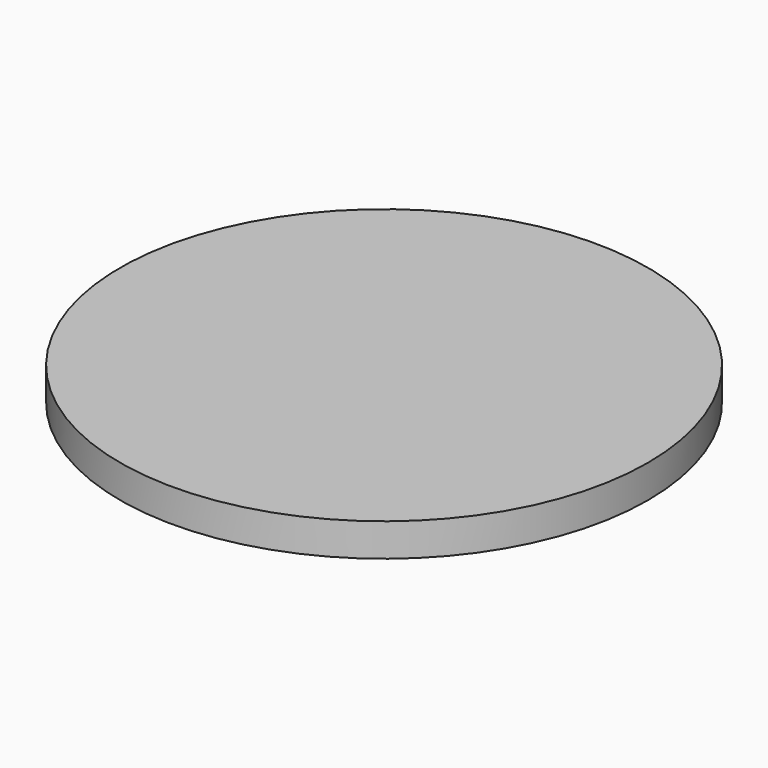
from build123d import *

# Parameters (mm, degrees)
F0_R     = 101.6
F0_R_2   = 98.425
F1_DEPTH = 12.7
F2_R     = 98.425
F3_DEPTH = 6.35


with BuildPart() as f1:
    # F0 (on Top) → F1 (new body)
    with BuildSketch(Plane.XY):
        Circle(F0_R)
        Circle(F0_R_2, mode=Mode.SUBTRACT)
    extrude(amount=-F1_DEPTH)

    # F2 (on Top) → F3 (join)
    with BuildSketch(Plane.XY):
        Circle(F2_R)
    extrude(amount=-F3_DEPTH)


solid = f1.part
